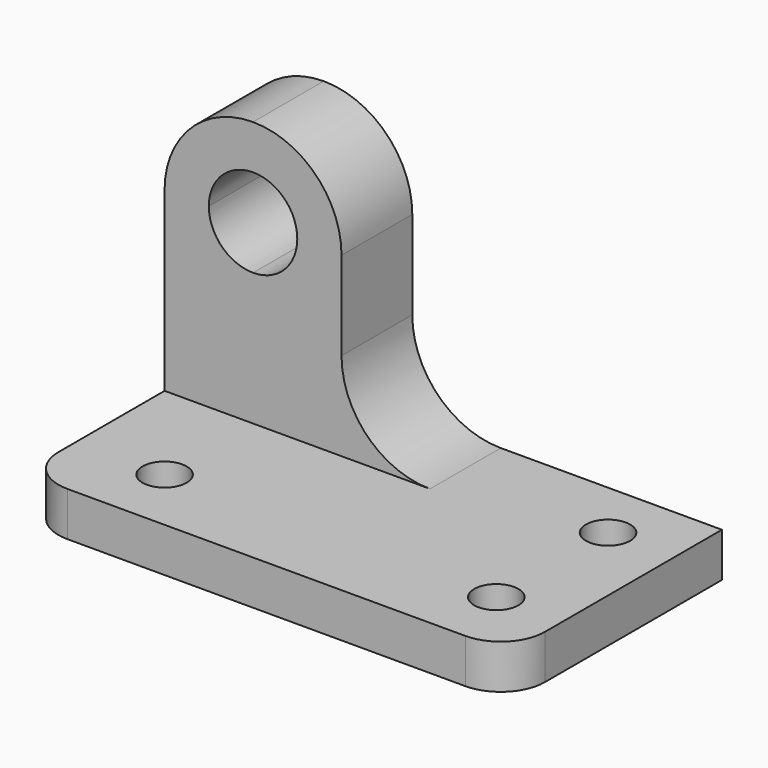
from build123d import *

# Parameters (mm, degrees)
F0_W     = 69.85
F0_H     = 44.45
F1_DEPTH = 38.1
F3_DEPTH = 38.101
F4_DEPTH = 25.4
F5_R     = 3.175
F6_DEPTH = 6.351
F8_DEPTH = 12.701


with BuildPart() as f1:
    # F0 (on Front) → F1 (new body)
    with BuildSketch(Plane.XZ):
        with Locations((-14.4096150837, 22.225)):
            Rectangle(F0_W, F0_H)
    extrude(amount=F1_DEPTH)

    # F2 (on face) → F3 (cut, through all)
    with BuildSketch(Plane.XZ.offset(38.1)):
        with BuildLine():
            Line((-49.3346150837, 44.45), (-49.3346150837, 31.75))
            ThreePointArc((-49.3346150837, 31.75), (-45.6148712048, 40.7302561211), (-36.6346150837, 44.45))
            Line((-36.6346150837, 44.45), (-49.3346150837, 44.45))
        make_face()
        with BuildLine():
            Line((-23.9346150837, 31.75), (-23.9346150837, 19.05))
            Line((-23.9346150837, 19.05), (1.4653849163, 19.05))
            Line((1.4653849163, 19.05), (20.5153849163, 19.05))
            Line((20.5153849163, 19.05), (20.5153849163, 44.45))
            Line((20.5153849163, 44.45), (-36.6346150837, 44.45))
            ThreePointArc((-36.6346150837, 44.45), (-27.6543589626, 40.7302561211), (-23.9346150837, 31.75))
        make_face()
        with BuildLine():
            Line((1.4653849163, 19.05), (-23.9346150837, 19.05))
            ThreePointArc((-23.9346150837, 19.05), (-20.2148712048, 10.0697438789), (-11.2346150837, 6.35))
            ThreePointArc((-11.2346150837, 6.35), (-2.2543589626, 10.0697438789), (1.4653849163, 19.05))
        make_face()
        with BuildLine():
            Line((-11.2346150837, 6.35), (20.5153849163, 6.35))
            Line((20.5153849163, 6.35), (20.5153849163, 19.05))
            Line((20.5153849163, 19.05), (1.4653849163, 19.05))
            ThreePointArc((1.4653849163, 19.05), (-2.2543589626, 10.0697438789), (-11.2346150837, 6.35))
        make_face()
    extrude(amount=-F3_DEPTH, mode=Mode.SUBTRACT)

    # F2 (on face) → F4 (cut)
    with BuildSketch(Plane.XZ.offset(38.1)):
        Polygon((-49.3346150837, 31.75), (-49.3346150837, 6.35), (-23.9346150837, 6.35), (-23.9346150837, 19.05), (-23.9346150837, 31.75), align=None)
        with BuildLine():
            Line((-23.9346150837, 19.05), (-23.9346150837, 6.35))
            Line((-23.9346150837, 6.35), (-11.2346150837, 6.35))
            ThreePointArc((-11.2346150837, 6.35), (-20.2148712048, 10.0697438789), (-23.9346150837, 19.05))
        make_face()
        with BuildLine():
            ThreePointArc((-23.9346150837, 31.75), (-36.6346150837, 44.45), (-49.3346150837, 31.75))
            Line((-49.3346150837, 31.75), (-23.9346150837, 31.75))
        make_face()
        with BuildLine():
            Line((1.4653849163, 19.05), (-23.9346150837, 19.05))
            ThreePointArc((-23.9346150837, 19.05), (-20.2148712048, 10.0697438789), (-11.2346150837, 6.35))
            ThreePointArc((-11.2346150837, 6.35), (-2.2543589626, 10.0697438789), (1.4653849163, 19.05))
        make_face()
        with BuildLine():
            ThreePointArc((1.4653849163, 19.05), (-2.2543589626, 10.0697438789), (-11.2346150837, 6.35))
            Line((-11.2346150837, 6.35), (20.5153849163, 6.35))
            Line((20.5153849163, 6.35), (20.5153849163, 19.05))
            Line((20.5153849163, 19.05), (1.4653849163, 19.05))
        make_face()
    extrude(amount=-F4_DEPTH, mode=Mode.SUBTRACT)

    # F5 (on face) → F6 (cut, through all)
    with BuildSketch(Plane.XY.offset(6.35)):
        with Locations((10.9903849163, -8.5281981155)):
            Circle(F5_R)
        with Locations((10.9903849163, -28.575)):
            Circle(F5_R)
        with BuildLine():
            ThreePointArc((-42.9846150837, -38.1), (-47.4747431442, -36.2401280605), (-49.3346150837, -31.75))
            Line((-49.3346150837, -31.75), (-49.3346150837, -38.1))
            Line((-49.3346150837, -38.1), (-42.9846150837, -38.1))
        make_face()
        with BuildLine():
            ThreePointArc((20.5153849163, -31.75), (18.6555129768, -36.2401280605), (14.1653849163, -38.1))
            Line((14.1653849163, -38.1), (20.5153849163, -38.1))
            Line((20.5153849163, -38.1), (20.5153849163, -31.75))
        make_face()
        with Locations((-36.6346150837, -28.575)):
            Circle(F5_R)
    extrude(amount=-F6_DEPTH, mode=Mode.SUBTRACT)

    # F7 (on face) → F8 (cut, through all)
    with BuildSketch(Plane.XZ.offset(12.7)):
        with BuildLine():
            Line((-36.6346150837, 31.75), (-36.6346150837, 38.1))
            ThreePointArc((-36.6346150837, 38.1), (-41.1247431442, 36.2401280605), (-42.9846150837, 31.75))
            Line((-42.9846150837, 31.75), (-36.6346150837, 31.75))
        make_face()
        with BuildLine():
            ThreePointArc((-30.2846150837, 31.75), (-32.1444870232, 36.2401280605), (-36.6346150837, 38.1))
            Line((-36.6346150837, 38.1), (-36.6346150837, 31.75))
            Line((-36.6346150837, 31.75), (-30.2846150837, 31.75))
        make_face()
        with BuildLine():
            Line((-30.2846150837, 31.75), (-36.6346150837, 31.75))
            Line((-36.6346150837, 31.75), (-36.6346150837, 25.4))
            ThreePointArc((-36.6346150837, 25.4), (-32.1444870232, 27.2598719395), (-30.2846150837, 31.75))
        make_face()
        with BuildLine():
            Line((-36.6346150837, 25.4), (-36.6346150837, 31.75))
            Line((-36.6346150837, 31.75), (-42.9846150837, 31.75))
            ThreePointArc((-42.9846150837, 31.75), (-41.1247431442, 27.2598719395), (-36.6346150837, 25.4))
        make_face()
    extrude(amount=-F8_DEPTH, mode=Mode.SUBTRACT)


solid = f1.part
